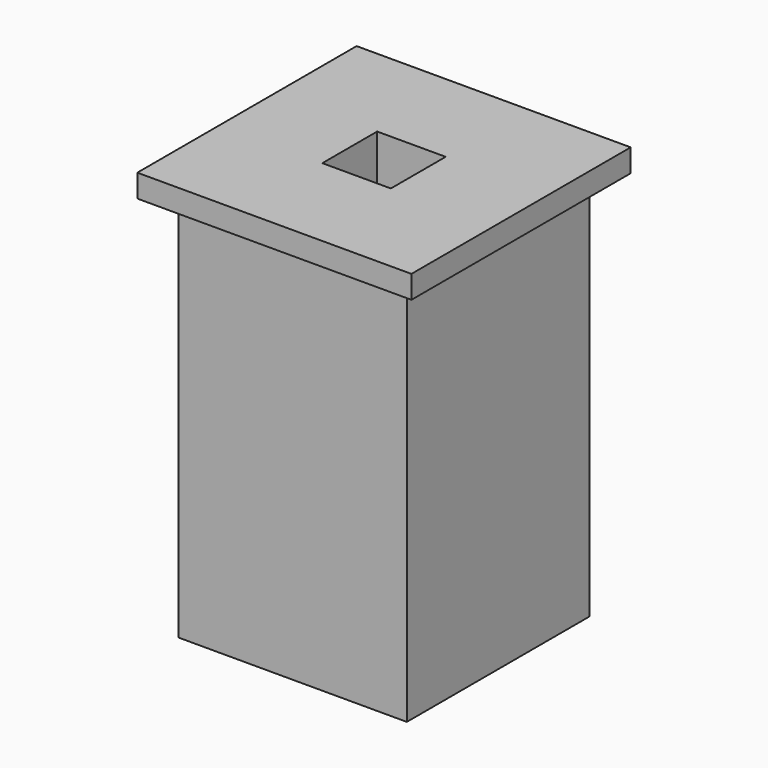
from build123d import *

# Parameters (mm, degrees)
F0_W     = 508
F0_H     = 508
F0_W_2   = 152.4
F0_H_2   = 152.4
F1_DEPTH = 863.6
F2_W     = 609.6
F2_H     = 609.6
F3_DEPTH = 50.8
F4_W     = 152.4
F4_H     = 152.4
F5_DEPTH = 254


with BuildPart() as f1:
    # F0 (on Top) → F1 (new body)
    with BuildSketch(Plane.XY):
        Rectangle(F0_W, F0_H)
        Rectangle(F0_W_2, F0_H_2, mode=Mode.SUBTRACT)
    extrude(amount=F1_DEPTH)

    # F2 (on face) → F3 (join)
    with BuildSketch(Plane.XY.offset(863.6)):
        Rectangle(F2_W, F2_H)
    extrude(amount=F3_DEPTH)

    # F4 (on face) → F5 (cut)
    with BuildSketch(Plane.XY.offset(914.4)):
        Rectangle(F4_W, F4_H)
    extrude(amount=-F5_DEPTH, mode=Mode.SUBTRACT)


solid = f1.part
